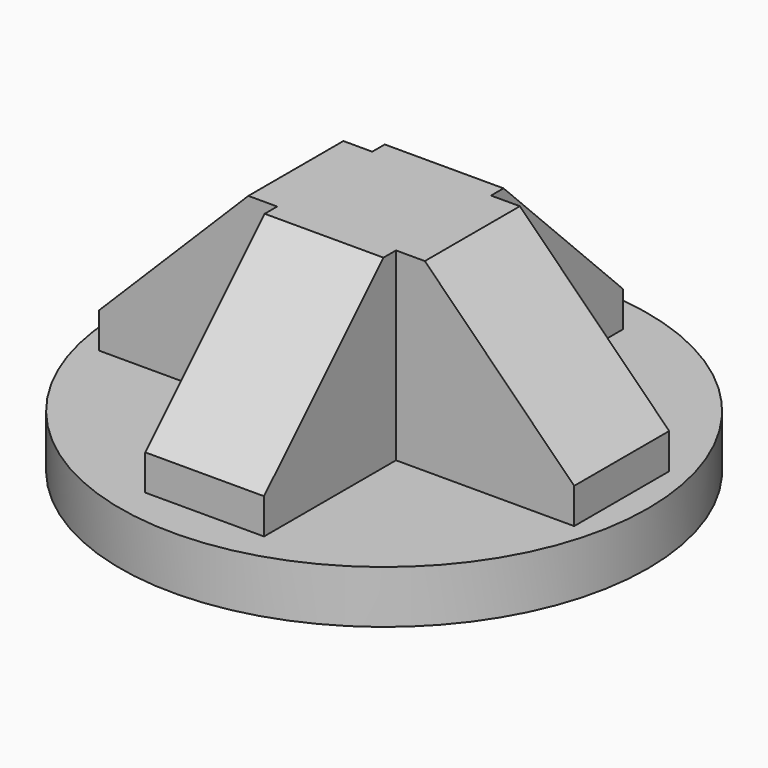
from build123d import *

# Parameters (mm, degrees)
F0_R     = 127
F1_DEPTH = 25.4
F3_DEPTH = 28.575
F5_DEPTH = 28.575


with BuildPart() as f1:
    # F0 (on Top) → F1 (new body)
    with BuildSketch(Plane.XY):
        Circle(F0_R)
    extrude(amount=F1_DEPTH)

    # F2 (on Right) → F3 (join, symmetric)
    with BuildSketch(Plane.YZ):
        Polygon((-107.95, 42.457951), (-107.95, 25.4), (0, 25.4), (0, 114.3), (-36.107951, 114.3), align=None)
        Polygon((0, 114.3), (0, 25.4), (107.95, 25.4), (107.95, 42.457951), (36.107951, 114.3), align=None)
    extrude(amount=F3_DEPTH, both=True)

    # F4 (on Front) → F5 (join, symmetric)
    with BuildSketch(Plane.XZ):
        Polygon((-114.3, 42.457951), (-114.3, 25.4), (0, 25.4), (0, 114.3), (-42.457951, 114.3), align=None)
        Polygon((0, 114.3), (0, 25.4), (114.3, 25.4), (114.3, 42.457951), (42.457951, 114.3), align=None)
    extrude(amount=F5_DEPTH, both=True)


solid = f1.part
